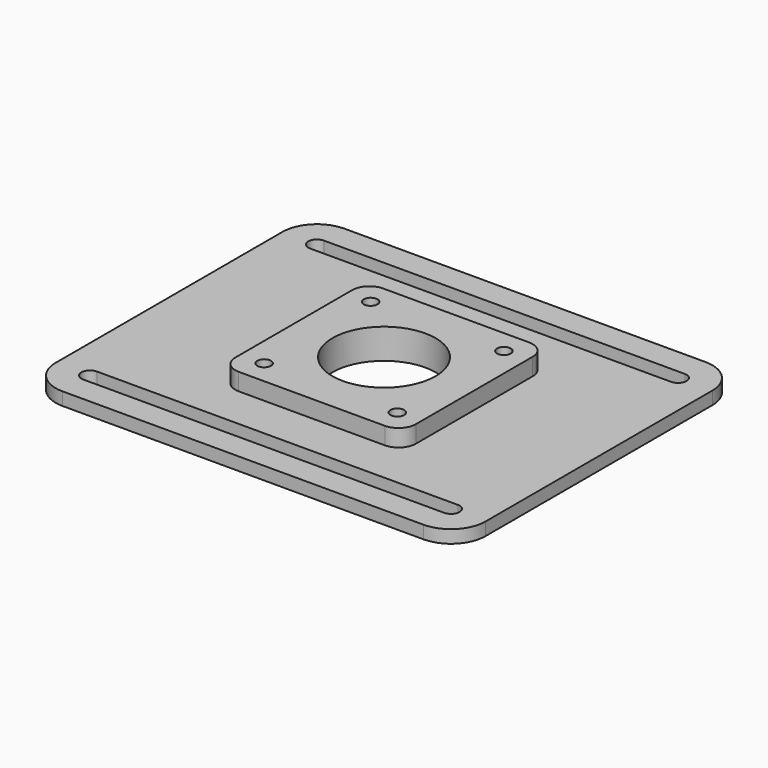
from build123d import *

# Parameters (mm, degrees)
F0_R     = 1.6
F0_R_2   = 12
F1_DEPTH = 3
F2_R     = 1.6
F2_R_2   = 12
F3_DEPTH = 4


with BuildPart() as f1:
    # F0 (on Top) → F1 (new body)
    with BuildSketch(Plane.XY):
        with BuildLine():
            ThreePointArc((50, 33), (47.656854, 38.656854), (42, 41))
            Line((42, 41), (-42, 41))
            ThreePointArc((-42, 41), (-47.656854, 38.656854), (-50, 33))
            Line((-50, 33), (-50, -33))
            ThreePointArc((-50, -33), (-47.656854, -38.656854), (-42, -41))
            Line((-42, -41), (42, -41))
            ThreePointArc((42, -41), (47.656854, -38.656854), (50, -33))
            Line((50, -33), (50, 33))
        make_face()
        with Locations((-15.5, -15.5)):
            Circle(F0_R, mode=Mode.SUBTRACT)
        with BuildLine():
            Line((42, -35), (-42, -35))
            ThreePointArc((-42, -35), (-44, -33), (-42, -31))
            Line((-42, -31), (42, -31))
            ThreePointArc((42, -31), (44, -33), (42, -35))
        make_face(mode=Mode.SUBTRACT)
        with Locations((15.5, -15.5)):
            Circle(F0_R, mode=Mode.SUBTRACT)
        with Locations((-15.5, 15.5)):
            Circle(F0_R, mode=Mode.SUBTRACT)
        Circle(F0_R_2, mode=Mode.SUBTRACT)
        with Locations((15.5, 15.5)):
            Circle(F0_R, mode=Mode.SUBTRACT)
        with BuildLine():
            Line((42, 31), (-42, 31))
            ThreePointArc((-42, 31), (-44, 33), (-42, 35))
            Line((-42, 35), (42, 35))
            ThreePointArc((42, 35), (44, 33), (42, 31))
        make_face(mode=Mode.SUBTRACT)
    extrude(amount=F1_DEPTH)

    # F2 (on face) → F3 (join)
    with BuildSketch(Plane.XY.offset(3)):
        with BuildLine():
            ThreePointArc((21, 17), (19.828427, 19.828427), (17, 21))
            Line((17, 21), (-17, 21))
            ThreePointArc((-17, 21), (-19.828427, 19.828427), (-21, 17))
            Line((-21, 17), (-21, -17))
            ThreePointArc((-21, -17), (-19.828427, -19.828427), (-17, -21))
            Line((-17, -21), (17, -21))
            ThreePointArc((17, -21), (19.828427, -19.828427), (21, -17))
            Line((21, -17), (21, 17))
        make_face()
        with Locations((-15.5, -15.5)):
            Circle(F2_R, mode=Mode.SUBTRACT)
        with Locations((15.5, -15.5)):
            Circle(F2_R, mode=Mode.SUBTRACT)
        with Locations((-15.5, 15.5)):
            Circle(F2_R, mode=Mode.SUBTRACT)
        Circle(F2_R_2, mode=Mode.SUBTRACT)
        with Locations((15.5, 15.5)):
            Circle(F2_R, mode=Mode.SUBTRACT)
    extrude(amount=F3_DEPTH)


solid = f1.part
